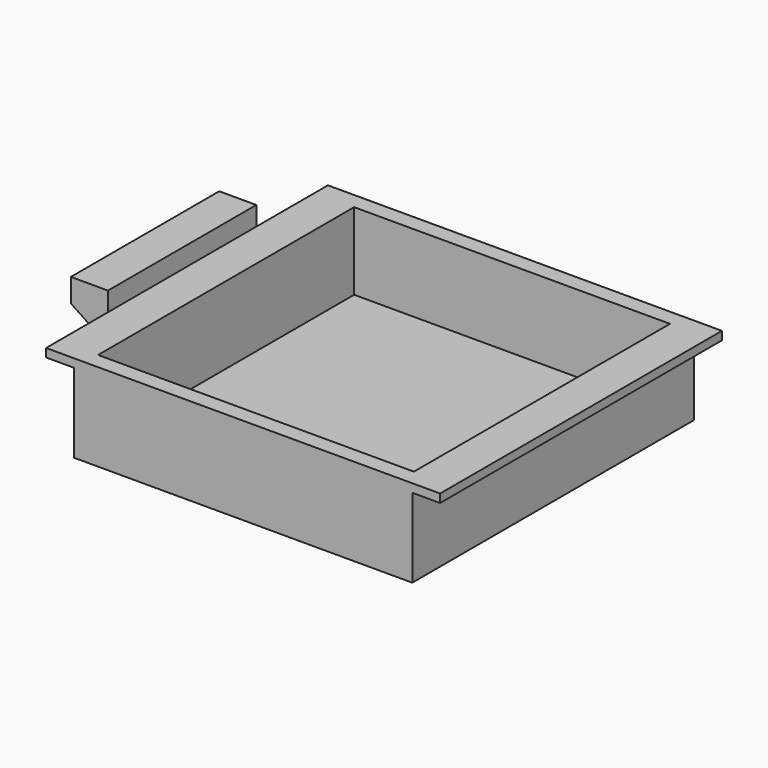
from build123d import *

# Parameters (mm, degrees)
F1_W      = 12.7
F1_H      = 9.3092
F2_DEPTH  = 63.5
F0_W      = 231.775
F0_H      = 54.235168
F3_DEPTH  = 120.65
F4_W      = 216.339826
F4_H      = 219.264298
F5_DEPTH  = 52.832
F8_DEPTH  = 184.151
F10_DEPTH = 13.97


with BuildPart() as f2:
    # F1 (on Front) → F2 (new body, symmetric)
    with BuildSketch(Plane.XZ):
        Polygon((-138.27653, 16.038794), (-163.67653, 16.038794), (-163.67653, -10.703998), (-138.27653, -10.703998), (-138.27653, -1.394798), align=None)
        with Locations((-131.92653, -6.049398)):
            Rectangle(F1_W, F1_H)
    extrude(amount=F2_DEPTH, both=True)

    # F7 (on face) → F8 (cut, through all)
    with BuildSketch(Plane(origin=(0, 63.5, 0), x_dir=(-1, 0, 0), z_dir=(0, 1, 0))):
        Polygon((147.607744, -10.703998), (163.67653, -10.703998), (163.67653, 0), align=None)
    extrude(amount=-F8_DEPTH, mode=Mode.SUBTRACT)

    # F9 (on face) → F10 (cut)
    with BuildSketch(Plane(origin=(0, 0, -10.703998), x_dir=(1, 0, 0), z_dir=(0, 0, -1))):
        with BuildLine():
            ThreePointArc((-150.97653, 44.45), (-146.486402, 46.309872), (-144.62653, 50.8))
            ThreePointArc((-144.62653, 50.8), (-146.486402, 55.290128), (-150.97653, 57.15))
            Line((-150.97653, 57.15), (-150.97653, 44.45))
        make_face()
        with BuildLine():
            Line((-150.97653, 44.45), (-150.97653, 57.15))
            ThreePointArc((-150.97653, 57.15), (-157.32653, 50.8), (-150.97653, 44.45))
        make_face()
        with BuildLine():
            Line((-150.97653, -6.35), (-150.97653, 6.35))
            ThreePointArc((-150.97653, 6.35), (-157.32653, 0), (-150.97653, -6.35))
        make_face()
        with BuildLine():
            ThreePointArc((-144.62653, 0), (-146.486402, 4.490128), (-150.97653, 6.35))
            Line((-150.97653, 6.35), (-150.97653, -6.35))
            ThreePointArc((-150.97653, -6.35), (-146.486402, -4.490128), (-144.62653, 0))
        make_face()
        with BuildLine():
            Line((-150.97653, -57.969606), (-150.97653, -43.630394))
            ThreePointArc((-150.97653, -43.630394), (-158.146136, -50.8), (-150.97653, -57.969606))
        make_face()
        with BuildLine():
            ThreePointArc((-143.806924, -50.8), (-145.906853, -45.730323), (-150.97653, -43.630394))
            Line((-150.97653, -43.630394), (-150.97653, -57.969606))
            ThreePointArc((-150.97653, -57.969606), (-145.906853, -55.869677), (-143.806924, -50.8))
        make_face()
    extrude(amount=-F10_DEPTH, mode=Mode.SUBTRACT)


with BuildPart() as f3:
    # F0 (on Front) → F3 (new body, symmetric)
    with BuildSketch(Plane.XZ):
        Polygon((-115.8875, 0), (115.8875, 0), (134.9375, 0), (134.9375, 5.747169), (-134.9375, 5.747169), (-134.9375, 0), align=None)
        with Locations((0, -27.117584)):
            Rectangle(F0_W, F0_H)
    extrude(amount=F3_DEPTH, both=True)

    # F4 (on face) → F5 (cut)
    with BuildSketch(Plane.XY.offset(5.747169)):
        Rectangle(F4_W, F4_H)
    extrude(amount=-F5_DEPTH, mode=Mode.SUBTRACT)


solid = Compound([f2.part, f3.part])
